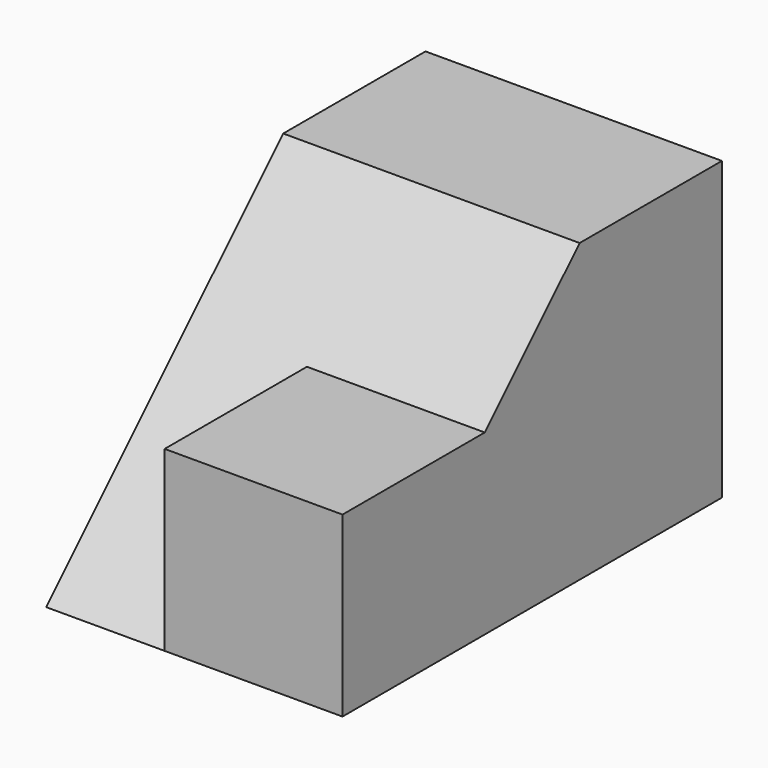
from build123d import *

# Parameters (mm, degrees)
F0_W     = 50.8
F0_H     = 31.75
F1_DEPTH = 31.75
F3_DEPTH = 12.7
F5_DEPTH = 19.05


with BuildPart() as f1:
    # F0 (on Right) → F1 (new body)
    with BuildSketch(Plane.YZ):
        with Locations((25.4, 15.875)):
            Rectangle(F0_W, F0_H)
    extrude(amount=-F1_DEPTH)

    # F2 (on face) → F3 (cut)
    with BuildSketch(Plane(origin=(-31.75, 0, 0), x_dir=(0, -1, 0), z_dir=(-1, 0, 0))):
        Polygon((0, 31.75), (-31.75, 31.75), (0, 0), align=None)
    extrude(amount=-F3_DEPTH, mode=Mode.SUBTRACT)

    # F4 (on face) → F5 (cut)
    with BuildSketch(Plane(origin=(-19.05, 0, 0), x_dir=(0, -1, 0), z_dir=(-1, 0, 0))):
        Polygon((-31.75, 31.75), (-19.05, 19.05), (0, 19.05), (0, 31.75), align=None)
    extrude(amount=-F5_DEPTH, mode=Mode.SUBTRACT)


solid = f1.part
